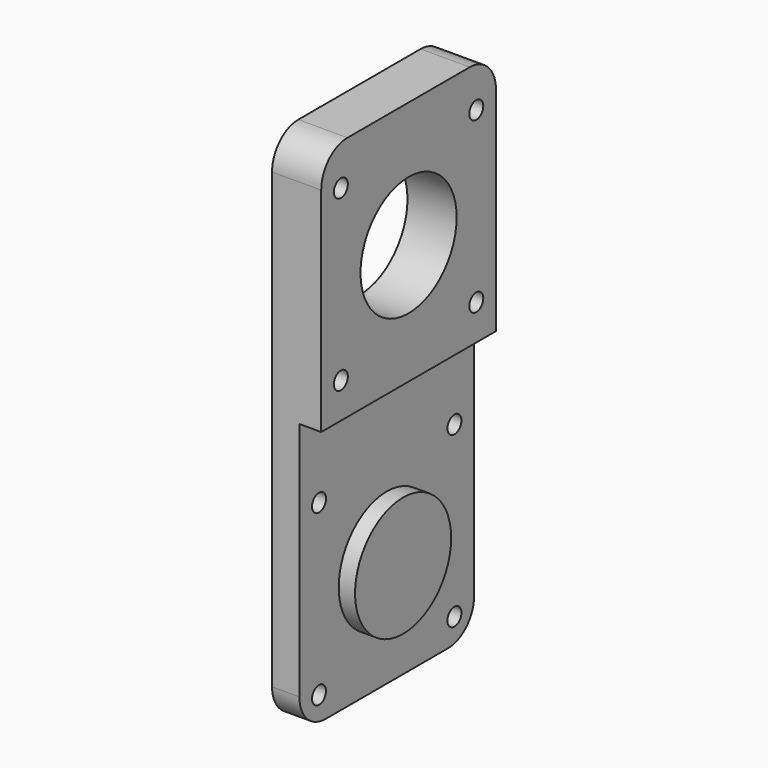
from build123d import *

# Parameters (mm, degrees)
SKETCH_W        = 40
SKETCH_H        = 95
PAD_DEPTH       = 9
SKETCH001_W     = 40
SKETCH001_H     = 50
POCKET_DEPTH    = 4
SKETCH002_R     = 11
PAD001_DEPTH    = 3
SKETCH003_R     = 1.6
POCKET001_DEPTH = 8
SKETCH004_R     = 11
SKETCH004_R_2   = 1.6
POCKET002_DEPTH = 10
FILLET_R        = 6


with BuildPart() as part:
    # Sketch → Pad (new body)
    with BuildSketch(Plane.YZ):
        with Locations((20, 47.5)):
            Rectangle(SKETCH_W, SKETCH_H)
    extrude(amount=PAD_DEPTH)

    # Sketch001 (on Face6 of Pad) → Pocket (cut)
    with BuildSketch(Plane.YZ.offset(9)):
        with Locations((20, 25)):
            Rectangle(SKETCH001_W, SKETCH001_H)
    extrude(amount=-POCKET_DEPTH, mode=Mode.SUBTRACT)

    # Sketch002 (on Face4 of Pocket) → Pad001 (join)
    with BuildSketch(Plane.YZ.offset(5)):
        with Locations((20, 20)):
            Circle(SKETCH002_R)
    extrude(amount=PAD001_DEPTH)

    # Sketch003 (on Face4 of Pad001) → Pocket001 (cut)
    with BuildSketch(Plane.YZ.offset(5)):
        with Locations((4.5, 35.5)):
            Circle(SKETCH003_R)
        with Locations((35.5, 35.5)):
            Circle(SKETCH003_R)
        with Locations((35.5, 4.5)):
            Circle(SKETCH003_R)
        with Locations((4.5, 4.5)):
            Circle(SKETCH003_R)
    extrude(amount=-POCKET001_DEPTH, mode=Mode.SUBTRACT)

    # Sketch004 (on Face11 of Pocket001) → Pocket002 (cut)
    with BuildSketch(Plane.YZ.offset(9)):
        with Locations((20, 72)):
            Circle(SKETCH004_R)
        with Locations((4.5, 87.5)):
            Circle(SKETCH004_R_2)
        with Locations((35.5, 87.5)):
            Circle(SKETCH004_R_2)
        with Locations((35.5, 56.5)):
            Circle(SKETCH004_R_2)
        with Locations((4.5, 56.5)):
            Circle(SKETCH004_R_2)
    extrude(amount=-POCKET002_DEPTH, mode=Mode.SUBTRACT)

    # Fillet
    fillet_edges = [part.edges().sort_by_distance(p)[0] for p in [
        (4.5, 0, 95),
        (4.5, 40, 95),
        (2.5, 40, 0),
        (2.5, 0, 0),
    ]]
    fillet(fillet_edges, radius=FILLET_R)


solid = part.part
